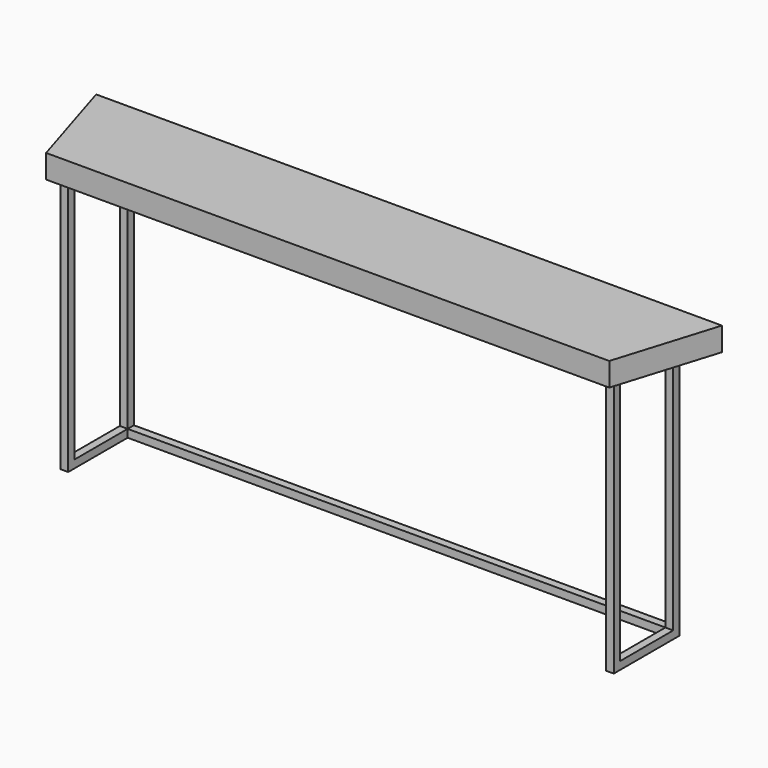
from build123d import *

# Parameters (mm, degrees)
F0_W     = 1828.8
F0_H     = 330.2
F1_DEPTH = 76.2
F2_W     = 25.4
F2_H     = 25.4
F3_DEPTH = 838.2
F4_W     = 25.4
F4_H     = 25.4
F5_DEPTH = 1746.25
F6_W     = 25.4
F6_H     = 25.4
F7_DEPTH = 215.9


with BuildPart() as f1:
    # F0 (on Top) → F1 (new body)
    with BuildSketch(Plane.XY):
        Rectangle(F0_W, F0_H)
        Polygon((-914.4, -165.1), (-914.4, 165.1), (-1016, 165.1), align=None)
        Polygon((1016, 165.1), (914.4, 165.1), (914.4, -165.1), align=None)
    extrude(amount=F1_DEPTH)

    # F2 (on face) → F3 (join)
    with BuildSketch(Plane(origin=(0, 0, 0), x_dir=(1, 0, 0), z_dir=(0, 0, -1))):
        with Locations((885.825, 114.3)):
            Rectangle(F2_W, F2_H)
        with Locations((-885.825, 114.3)):
            Rectangle(F2_W, F2_H)
        with Locations((-885.825, -127)):
            Rectangle(F2_W, F2_H)
        with Locations((885.825, -127)):
            Rectangle(F2_W, F2_H)
    extrude(amount=F3_DEPTH)

    # F4 (on face) → F5 (join, through all)
    with BuildSketch(Plane.YZ.offset(-873.125)):
        with Locations((127, -825.5)):
            Rectangle(F4_W, F4_H)
    extrude(amount=F5_DEPTH)

    # F6 (on face) → F7 (join, through all)
    with BuildSketch(Plane.XZ.offset(-114.3)):
        with Locations((885.825, -825.5)):
            Rectangle(F6_W, F6_H)
        with Locations((-885.825, -825.5)):
            Rectangle(F6_W, F6_H)
    extrude(amount=F7_DEPTH)


solid = f1.part
